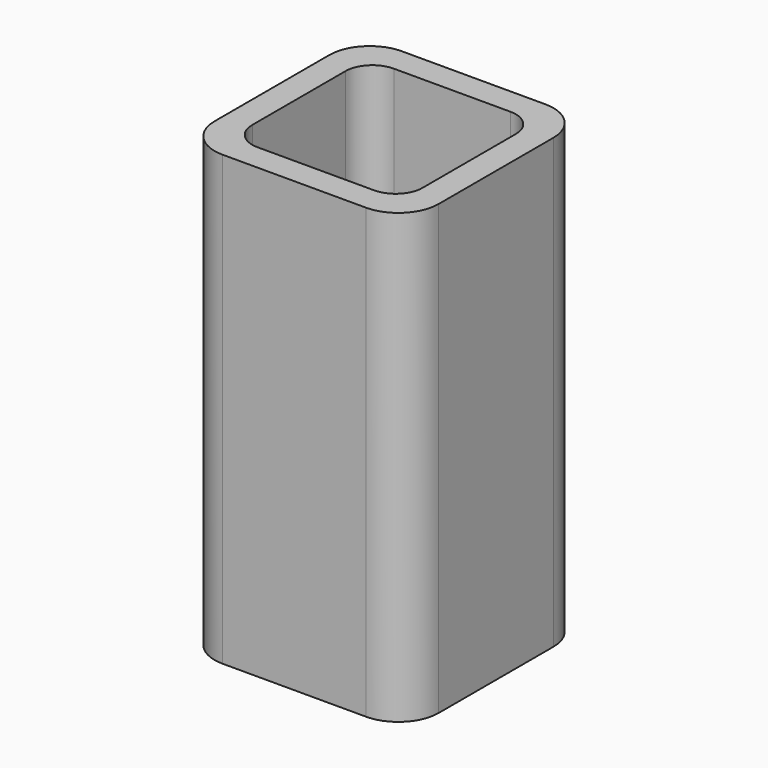
from build123d import *

# Parameters (mm, degrees)
EXTRUDE_DEPTH = 50


with BuildPart() as part:
    # Sketch → Extrude (new body)
    with BuildSketch(Plane.XY):
        with BuildLine():
            Line((-8, 12.5), (8, 12.5))
            ThreePointArc((12.5, 8), (11.181981, 11.181981), (8, 12.5))
            Line((12.5, 8), (12.5, -8))
            ThreePointArc((8, -12.5), (11.181981, -11.181981), (12.5, -8))
            Line((8, -12.5), (-8, -12.5))
            ThreePointArc((-12.5, -8), (-11.181981, -11.181981), (-8, -12.5))
            Line((-12.5, -8), (-12.5, 8))
            ThreePointArc((-8, 12.5), (-11.181981, 11.181981), (-12.5, 8))
        make_face()
        with BuildLine():
            Line((-6.5, 9.5), (6.5, 9.5))
            ThreePointArc((9.5, 6.5), (8.62132, 8.62132), (6.5, 9.5))
            Line((9.5, 6.5), (9.5, -6.5))
            ThreePointArc((6.5, -9.5), (8.62132, -8.62132), (9.5, -6.5))
            Line((6.5, -9.5), (-6.5, -9.5))
            ThreePointArc((-9.5, -6.5), (-8.62132, -8.62132), (-6.5, -9.5))
            Line((-9.5, -6.5), (-9.5, 6.5))
            ThreePointArc((-6.5, 9.5), (-8.62132, 8.62132), (-9.5, 6.5))
        make_face(mode=Mode.SUBTRACT)
    extrude(amount=EXTRUDE_DEPTH)


solid = part.part
